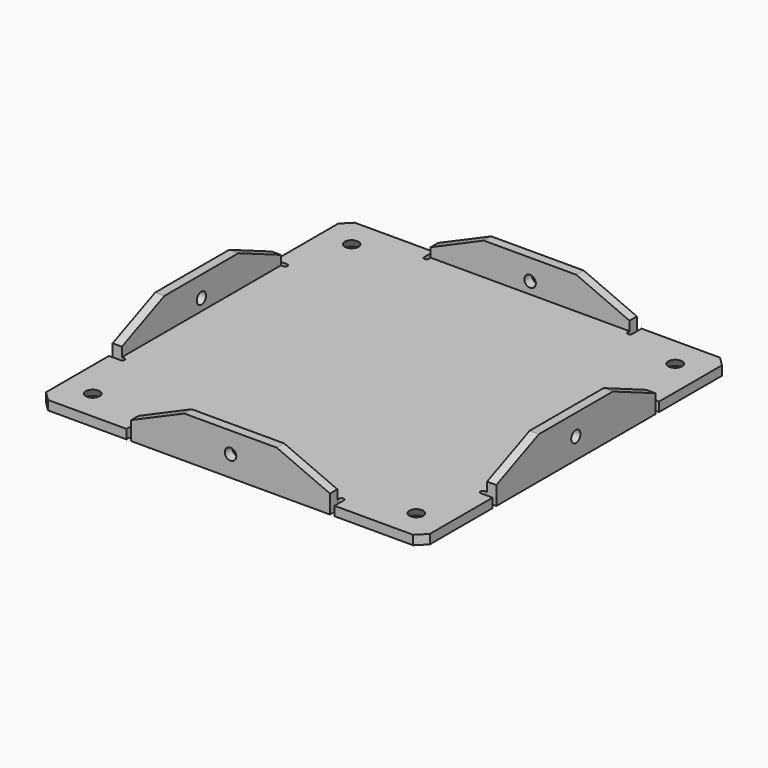
from build123d import *

# Parameters (mm, degrees)
PAD003_DEPTH    = 2
SKETCH003_R     = 3
SKETCH004_R     = 1.5
SKETCH005_R     = 3
SKETCH006_R     = 1.5
SKETCH007_R     = 3
SKETCH008_R     = 1.5
SKETCH001_R     = 3
SKETCH002_R     = 1.5
PAD_DEPTH       = 2
CHAMFER_SIZE    = 2
PAD004_DEPTH    = 2
PAD001_DEPTH    = 2
PAD002_DEPTH    = 2
SKETCH013_R     = 1.25
POCKET_DEPTH    = 83.001
SKETCH014_R     = 1.25
POCKET001_DEPTH = 83.001002


with BuildPart() as pad003:
    # Sketch011 → Pad003 (new body)
    with BuildSketch(Plane.YZ.offset(39.5)):
        Polygon((-21.5, 0), (21.5, 0), (21.5, 4), (10, 9), (-10, 9), (-21.5, 4), align=None)
    extrude(amount=PAD003_DEPTH)


with BuildPart() as loft001:
    # Sketch003 → Loft001 section 0
    with BuildSketch(Plane.XY):
        with Locations((35, -35)):
            Circle(SKETCH003_R)
    # Sketch004 → Loft001 section 1
    with BuildSketch(Plane.XY.offset(2)):
        with Locations((35, -35)):
            Circle(SKETCH004_R)
    loft(ruled=True)


with BuildPart() as loft002:
    # Sketch005 → Loft002 section 0
    with BuildSketch(Plane.XY):
        with Locations((-35, 35)):
            Circle(SKETCH005_R)
    # Sketch006 → Loft002 section 1
    with BuildSketch(Plane.XY.offset(2)):
        with Locations((-35, 35)):
            Circle(SKETCH006_R)
    loft(ruled=True)


with BuildPart() as loft003:
    # Sketch007 → Loft003 section 0
    with BuildSketch(Plane.XY):
        with Locations((35, 35)):
            Circle(SKETCH007_R)
    # Sketch008 → Loft003 section 1
    with BuildSketch(Plane.XY.offset(2)):
        with Locations((35, 35)):
            Circle(SKETCH008_R)
    loft(ruled=True)


with BuildPart() as loft_body:
    # Sketch001 → Loft section 0
    with BuildSketch(Plane.XY):
        with Locations((-35, -35)):
            Circle(SKETCH001_R)
    # Sketch002 → Loft section 1
    with BuildSketch(Plane.XY.offset(2)):
        with Locations((-35, -35)):
            Circle(SKETCH002_R)
    loft(ruled=True)


with BuildPart() as cut003:
    # Sketch → Pad (new body)
    with BuildSketch(Plane.XY):
        with BuildLine():
            Line((21.499998, -41.5), (-21.500002, -41.5))
            Line((-21.500002, -39), (-21.500002, -41.5))
            ThreePointArc((-21.500002, -39), (-22.000002, -38.5), (-22.500002, -39))
            Line((-22.500002, -41.5), (-22.500002, -39))
            Line((-22.500002, -41.5), (-41.500002, -41.5))
            Line((-41.500002, -41.5), (-41.500002, -22.5))
            Line((-39.000002, -22.5), (-41.500002, -22.5))
            ThreePointArc((-39.000002, -22.5), (-38.500001, -22.000001), (-39, -21.5))
            Line((-41.5, -21.5), (-39, -21.5))
            Line((-41.5, -21.5), (-41.5, 21.5))
            Line((-41.5, 21.5), (-39, 21.5))
            ThreePointArc((-39, 21.5), (-38.5, 22.000001), (-39.000002, 22.5))
            Line((-39.000002, 22.5), (-41.500002, 22.5))
            Line((-41.500002, 41.5), (-41.500002, 22.5))
            Line((-22.500002, 41.5), (-41.500002, 41.5))
            Line((-22.500002, 41.5), (-22.500002, 39))
            ThreePointArc((-22.500002, 39), (-22.000002, 38.5), (-21.500002, 39))
            Line((-21.500002, 39), (-21.500002, 41.5))
            Line((21.499998, 41.5), (-21.500002, 41.5))
            Line((21.499998, 39), (21.499998, 41.5))
            ThreePointArc((21.499998, 39), (21.999998, 38.5), (22.499998, 39))
            Line((22.499998, 41.5), (22.499998, 39))
            Line((22.499998, 41.5), (41.499998, 41.5))
            Line((41.499998, 41.5), (41.499998, 22.5))
            Line((38.999998, 22.5), (41.499998, 22.5))
            ThreePointArc((38.999998, 22.5), (38.499996, 21.999999), (39, 21.5))
            Line((41.5, 21.5), (39, 21.5))
            Line((41.5, -21.5), (41.5, 21.5))
            Line((41.5, -21.5), (39, -21.5))
            ThreePointArc((39, -21.5), (38.500002, -21.999999), (38.999998, -22.5))
            Line((38.999998, -22.5), (41.499998, -22.5))
            Line((41.499998, -41.5), (41.499998, -22.5))
            Line((22.499998, -41.5), (41.499998, -41.5))
            Line((22.499998, -41.5), (22.499998, -39))
            ThreePointArc((22.499998, -39), (21.999998, -38.5), (21.499998, -39))
            Line((21.499998, -39), (21.499998, -41.5))
        make_face()
    extrude(amount=PAD_DEPTH)

    # Chamfer
    chamfer_edges = [cut003.edges().sort_by_distance(p)[0] for p in [
        (-41.500002, -41.5, 1),
        (-41.500002, 41.5, 1),
        (41.499998, -41.5, 1),
        (41.499998, 41.5, 1),
    ]]
    chamfer(chamfer_edges, length=CHAMFER_SIZE)

    # Cut: cut Loft body
    add(loft_body.part, mode=Mode.SUBTRACT)

    # Cut001: cut Loft003
    add(loft003.part, mode=Mode.SUBTRACT)

    # Cut002: cut Loft002
    add(loft002.part, mode=Mode.SUBTRACT)

    # Cut003: cut Loft001
    add(loft001.part, mode=Mode.SUBTRACT)


with BuildPart() as fusion:
    # Sketch012 → Pad004 (new body)
    with BuildSketch(Plane.YZ.offset(-41.5)):
        Polygon((-21.5, 0), (21.5, 0), (21.5, 4), (10, 9), (-10, 9), (-21.5, 4), align=None)
    extrude(amount=PAD004_DEPTH)

    # Fusion: union Cut003
    add(cut003.part)


with BuildPart() as pad001:
    # Sketch009 → Pad001 (new body)
    with BuildSketch(Plane.XZ.offset(39.5)):
        Polygon((-21.5, 0), (21.5, 0), (21.5, 4), (10, 9), (-10, 9), (-21.5, 4), align=None)
    extrude(amount=PAD001_DEPTH)


with BuildPart() as pocket001:
    # Sketch010 → Pad002 (new body)
    with BuildSketch(Plane.XZ.offset(-41.5)):
        Polygon((-21.5, 0), (21.5, 0), (21.5, 4), (10, 9), (-10, 9), (-21.5, 4), align=None)
    extrude(amount=PAD002_DEPTH)

    # Fusion001: union Pad003, Fusion, Pad001
    add(pad003.part)
    add(fusion.part)
    add(pad001.part)

    # Sketch013 → Pocket (cut, through all)
    with BuildSketch(Plane.XZ.offset(41.5)):
        with Locations((0, 4.5)):
            Circle(SKETCH013_R)
    extrude(amount=-POCKET_DEPTH, mode=Mode.SUBTRACT)

    # Sketch014 → Pocket001 (cut, through all)
    with BuildSketch(Plane.YZ.offset(41.5)):
        with Locations((0, 4.5)):
            Circle(SKETCH014_R)
    extrude(amount=-POCKET001_DEPTH, mode=Mode.SUBTRACT)


solid = pocket001.part
